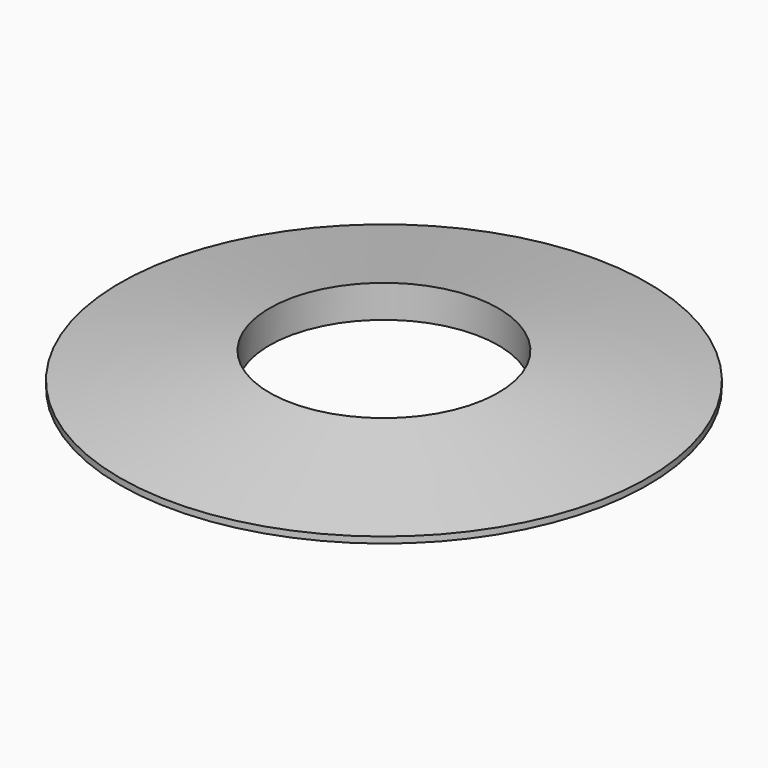
from build123d import *


with BuildPart() as f1:
    # F0 (on Right) → F1 (revolve)
    with BuildSketch(Plane.YZ):
        Polygon((11, 0), (25.375, 0), (25.375, 0.6), (11, 3.1347), align=None)
    revolve(axis=Axis((0, 0, 4.121042), (0, 0, 1)))


solid = f1.part
